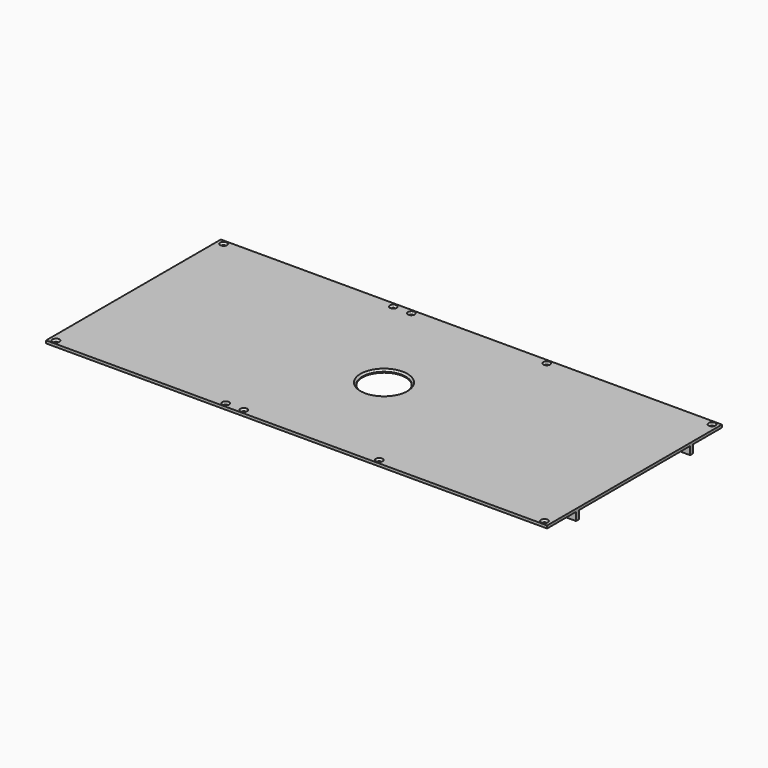
from build123d import *

# Parameters (mm, degrees)
SKETCH017_W     = 277.5
SKETCH017_H     = 121
PAD007_DEPTH    = 1.5
SKETCH018_R     = 0.9
POCKET006_DEPTH = 1.501
SKETCH025_W     = 277.5
SKETCH025_H     = 2
PAD009_DEPTH    = 4.5
SKETCH026_R     = 12
POCKET007_DEPTH = 6.001
CHAMFER_SIZE    = 1


with BuildPart() as part:
    # Sketch017 → Pad007 (new body)
    with BuildSketch(Plane.XY.offset(13)):
        Rectangle(SKETCH017_W, SKETCH017_H)
    extrude(amount=-PAD007_DEPTH)

    # Sketch018 (on Face6 of Pad007) → Pocket006 (cut, through all)
    with BuildSketch(Plane(origin=(0, 0, 11.5), x_dir=(1, 0, 0), z_dir=(0, 0, -1))):
        with Locations((-135.25, 58)):
            Circle(SKETCH018_R)
        with Locations((-41.25, 58)):
            Circle(SKETCH018_R)
        with Locations((-31.25, 58)):
            Circle(SKETCH018_R)
        with Locations((43.75, 58)):
            Circle(SKETCH018_R)
        with Locations((135.25, 58)):
            Circle(SKETCH018_R)
        with Locations((135.25, -58)):
            Circle(SKETCH018_R)
        with Locations((43.75, -58)):
            Circle(SKETCH018_R)
        with Locations((-31.25, -58)):
            Circle(SKETCH018_R)
        with Locations((-41.25, -58)):
            Circle(SKETCH018_R)
        with Locations((-135.25, -58)):
            Circle(SKETCH018_R)
    extrude(amount=-POCKET006_DEPTH, mode=Mode.SUBTRACT)

    # Sketch025 (on Face5 of Pocket006) → Pad009 (join)
    with BuildSketch(Plane(origin=(0, 0, 11.5), x_dir=(1, 0, 0), z_dir=(0, 0, -1))):
        with Locations((0, 39.5)):
            Rectangle(SKETCH025_W, SKETCH025_H)
        with Locations((0, -39.5)):
            Rectangle(SKETCH025_W, SKETCH025_H)
    extrude(amount=PAD009_DEPTH)

    # Sketch026 (on Face2 of Pad009) → Pocket007 (cut, through all)
    with BuildSketch(Plane.XY.offset(13)):
        Circle(SKETCH026_R)
    extrude(amount=-POCKET007_DEPTH, mode=Mode.SUBTRACT)

    # Chamfer
    chamfer_edges = [part.edges().sort_by_distance(p)[0] for p in [
        (134.35, -58, 13),
        (42.85, -58, 13),
        (-32.15, -58, 13),
        (-42.15, -58, 13),
        (-136.15, -58, 13),
        (-136.15, 58, 13),
        (-42.15, 58, 13),
        (-32.15, 58, 13),
        (42.85, 58, 13),
        (134.35, 58, 13),
        (-12, 0, 13),
    ]]
    chamfer(chamfer_edges, length=CHAMFER_SIZE)


solid = part.part
